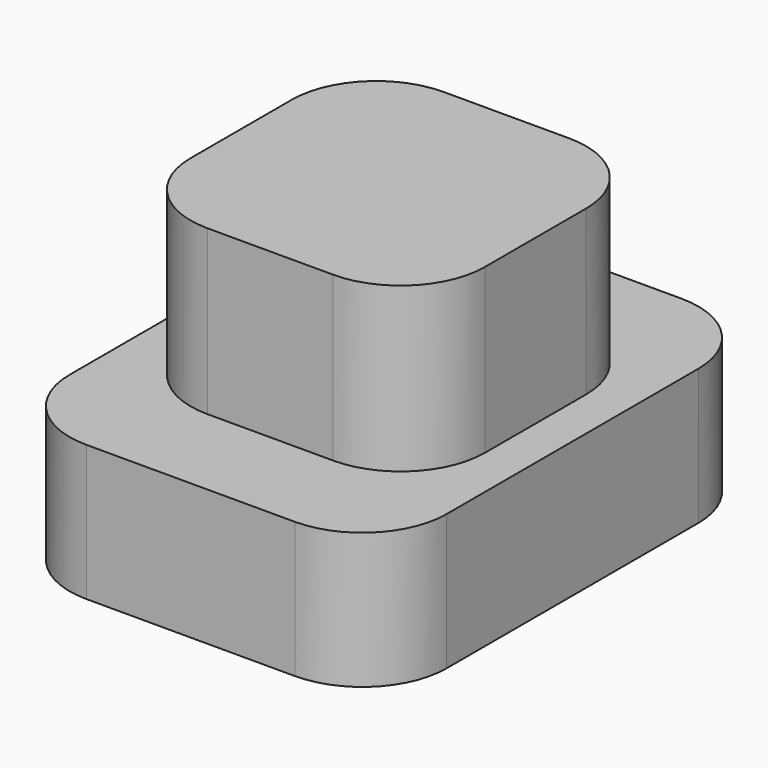
from build123d import *

# Parameters (mm, degrees)
F0_W     = 8.94
F0_H     = 11.46
F0_W_2   = 6.98
F0_H_2   = 7
F1_DEPTH = 3.22
F2_DEPTH = 7.1
F3_R     = 2


with BuildPart() as f1:
    # F0 (on Top) → F1 (new body)
    with BuildSketch(Plane.XY):
        with Locations((4.47, -5.73)):
            Rectangle(F0_W, F0_H)
        with Locations((4.47, -5.6)):
            Rectangle(F0_W_2, F0_H_2, mode=Mode.SUBTRACT)
    extrude(amount=F1_DEPTH)

    # F0 (on Top) → F2 (join)
    with BuildSketch(Plane.XY):
        with Locations((4.47, -5.6)):
            Rectangle(F0_W_2, F0_H_2)
    extrude(amount=F2_DEPTH)

    # F3
    f3_edges = [f1.edges().sort_by_distance(p)[0] for p in [
        (0.98, -9.1, 5.16),
        (7.96, -9.1, 5.16),
        (7.96, -2.1, 5.16),
        (0.98, -2.1, 5.16),
        (8.94, -11.46, 1.61),
        (8.94, 0, 1.61),
        (0, 0, 1.61),
        (0, -11.46, 1.61),
    ]]
    fillet(f3_edges, radius=F3_R)


solid = f1.part
